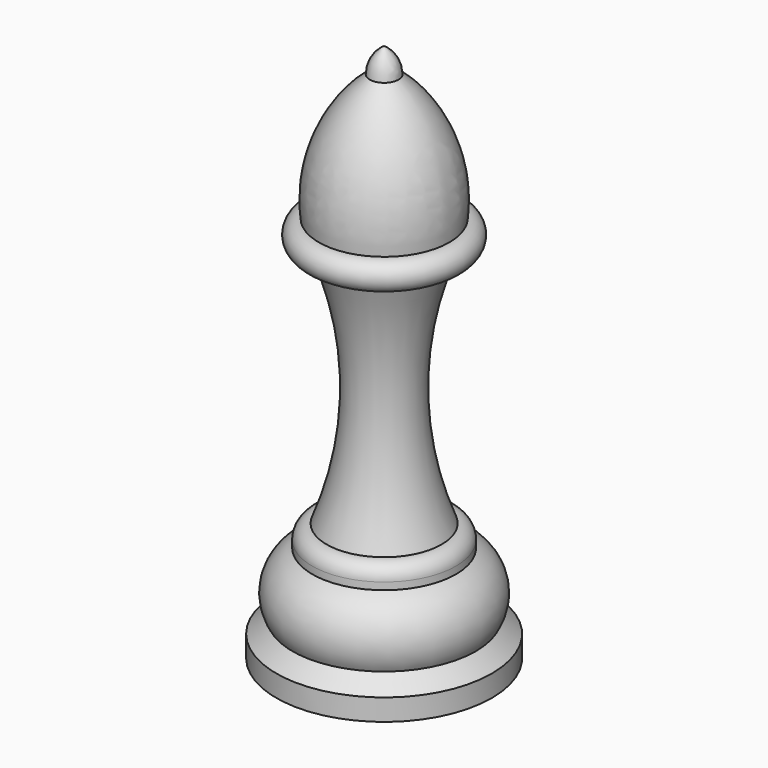
from build123d import *


with BuildPart() as f1:
    # F0 (on Front) → F1 (revolve)
    with BuildSketch(Plane.XZ):
        with BuildLine():
            Line((8, -25.092234), (9.088649, -25.092234))
            ThreePointArc((9.088649, -25.092234), (11.088649, -23.092234), (9.088649, -21.092234))
            ThreePointArc((9.088649, -21.092234), (7.771299, -11.382654), (2, -3.464102))
            ThreePointArc((2, -3.464102), (1.464102, -1.464102), (0, 0))
            Line((0, 0), (0, -75))
            Line((0, -75), (15, -75))
            Line((15, -75), (15, -72))
            Line((15, -72), (12.753169, -70))
            ThreePointArc((12.753169, -70), (13.293781, -65.113192), (10, -61.462965))
            Line((10, -61.462965), (10, -60.462965))
            ThreePointArc((10, -60.462965), (9.414214, -59.048752), (8, -58.462965))
            ThreePointArc((8, -58.462965), (4.792327, -41.7776), (8, -25.092234))
        make_face()
    revolve(axis=Axis((0, 0, -37.5), (0, 0, -1)))


solid = f1.part
